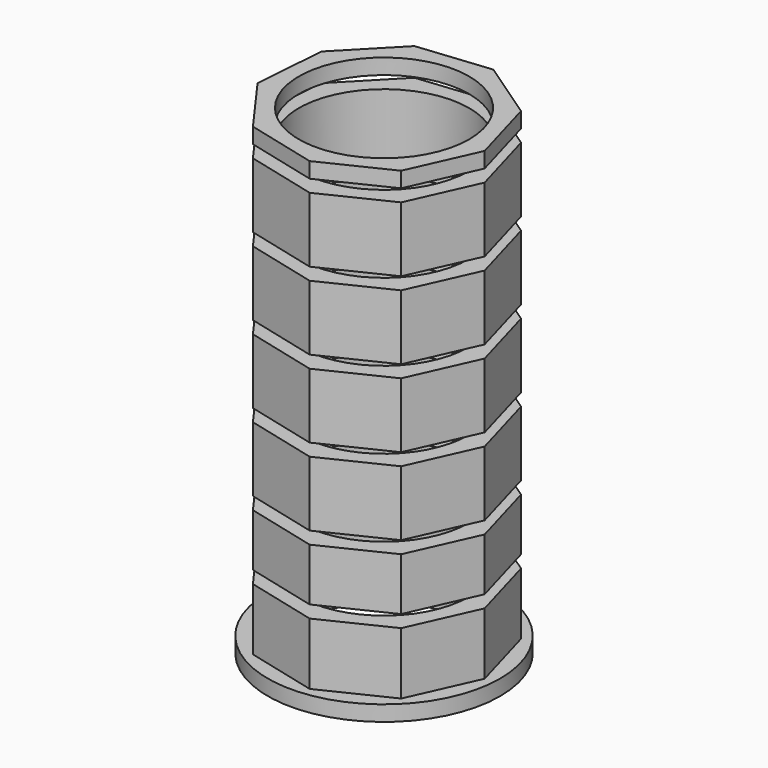
from build123d import *

# Parameters (mm, degrees)
F0_R      = 7.5
F0_R_2    = 5.5
F1_DEPTH  = 1
F2_DEPTH  = 31
F4_R      = 15
F4_R_2    = 2.45
F5_DEPTH  = 0.8
F7_R      = 15
F7_R_2    = 2.45
F8_DEPTH  = 0.8
F10_R     = 15
F10_R_2   = 2.45
F11_DEPTH = 0.8
F13_R     = 15
F13_R_2   = 2.45
F14_DEPTH = 0.8
F16_R     = 15
F16_R_2   = 2.45
F17_DEPTH = 0.8
F19_R     = 15
F19_R_2   = 2.45
F20_DEPTH = 0.8
F22_R     = 15
F22_R_2   = 2.45
F23_DEPTH = 0.8


with BuildPart() as f1:
    # F0 (on Top) → F1 (new body)
    with BuildSketch(Plane.XY):
        Circle(F0_R)
        Polygon((-6.65439, -1.888423), (-6.311413, 2.830743), (-3.015256, 6.225373), (1.691773, 6.707082), (5.607202, 4.050472), (6.898959, -0.501398), (4.962617, -4.818659), (0.704211, -6.881216), (-3.883703, -5.723975), align=None, mode=Mode.SUBTRACT)
        Polygon((-3.015256, 6.225373), (-6.311413, 2.830743), (-6.65439, -1.888423), (-3.883703, -5.723975), (0.704211, -6.881216), (4.962617, -4.818659), (6.898959, -0.501398), (5.607202, 4.050472), (1.691773, 6.707082), align=None)
        Circle(F0_R_2, mode=Mode.SUBTRACT)
    extrude(amount=F1_DEPTH)

    # F0 (on Top) → F2 (join)
    with BuildSketch(Plane.XY):
        Polygon((-3.015256, 6.225373), (-6.311413, 2.830743), (-6.65439, -1.888423), (-3.883703, -5.723975), (0.704211, -6.881216), (4.962617, -4.818659), (6.898959, -0.501398), (5.607202, 4.050472), (1.691773, 6.707082), align=None)
        Circle(F0_R_2, mode=Mode.SUBTRACT)
    extrude(amount=F2_DEPTH)

    # F4 (on offset) → F5 (cut)
    with BuildSketch(Plane.XY.offset(5)):
        Circle(F4_R)
        Circle(F4_R_2, mode=Mode.SUBTRACT)
    extrude(amount=F5_DEPTH, mode=Mode.SUBTRACT)

    # F7 (on offset) → F8 (cut)
    with BuildSketch(Plane.XY.offset(10)):
        Circle(F7_R)
        Circle(F7_R_2, mode=Mode.SUBTRACT)
    extrude(amount=-F8_DEPTH, mode=Mode.SUBTRACT)

    # F10 (on offset) → F11 (cut)
    with BuildSketch(Plane.XY.offset(15)):
        Circle(F10_R)
        Circle(F10_R_2, mode=Mode.SUBTRACT)
    extrude(amount=-F11_DEPTH, mode=Mode.SUBTRACT)

    # F13 (on offset) → F14 (cut)
    with BuildSketch(Plane.XY.offset(20)):
        Circle(F13_R)
        Circle(F13_R_2, mode=Mode.SUBTRACT)
    extrude(amount=-F14_DEPTH, mode=Mode.SUBTRACT)

    # F16 (on offset) → F17 (cut)
    with BuildSketch(Plane.XY.offset(25)):
        Circle(F16_R)
        Circle(F16_R_2, mode=Mode.SUBTRACT)
    extrude(amount=-F17_DEPTH, mode=Mode.SUBTRACT)

    # F19 (on offset) → F20 (cut)
    with BuildSketch(Plane.XY.offset(30)):
        Circle(F19_R)
        Circle(F19_R_2, mode=Mode.SUBTRACT)
    extrude(amount=-F20_DEPTH, mode=Mode.SUBTRACT)

    # F22 (on offset) → F23 (cut)
    with BuildSketch(Plane.XY.offset(35)):
        Circle(F22_R)
        Circle(F22_R_2, mode=Mode.SUBTRACT)
    extrude(amount=-F23_DEPTH, mode=Mode.SUBTRACT)


solid = f1.part
